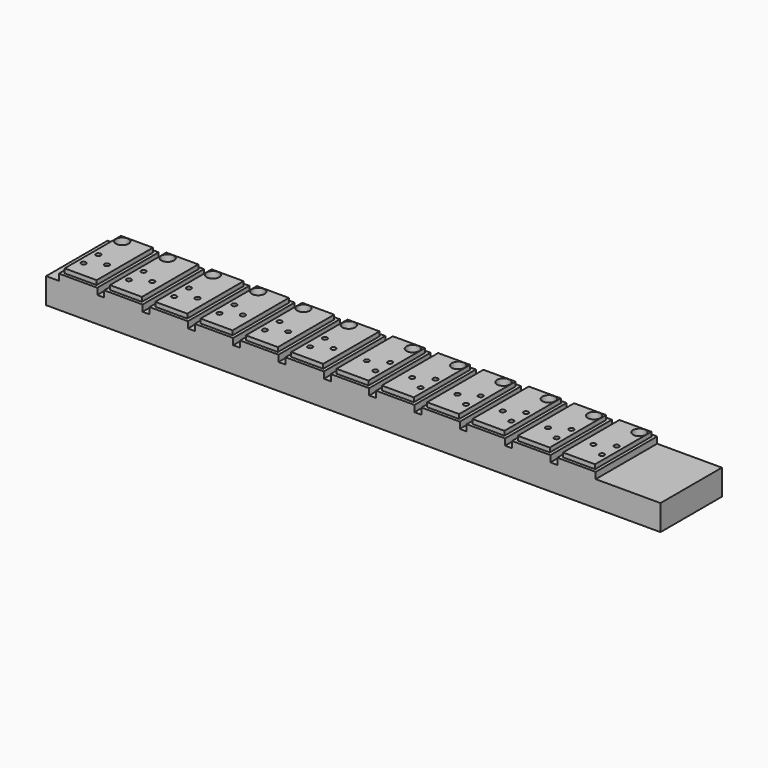
from build123d import *

# Parameters (mm, degrees)
F1_W     = 38.1
F1_H     = 76.2
F2_DEPTH = 6.35
F0_W     = 609.6
F0_H     = 76.2
F3_DEPTH = 25.4
F4_W     = 31.75
F4_H     = 69.85
F5_DEPTH = 4.318
F6_R     = 6.35
F6_R_2   = 2.413
F7_DEPTH = 12.7


with BuildPart() as f2:
    # F1 (on face) → F2 (new body)
    with BuildSketch(Plane.XY):
        with Locations((31.75, 38.1)):
            Rectangle(F1_W, F1_H)
    extrude(amount=F2_DEPTH)



with BuildPart() as f2b:
    # F1 (on face) → F2, piece 2 (new body)
    with BuildSketch(Plane.XY):
        with Locations((76.708, 38.1)):
            Rectangle(F1_W, F1_H)
    extrude(amount=F2_DEPTH)


with BuildPart() as f2c:
    # F1 (on face) → F2, piece 3 (new body)
    with BuildSketch(Plane.XY):
        with Locations((121.666, 38.1)):
            Rectangle(F1_W, F1_H)
    extrude(amount=F2_DEPTH)


with BuildPart() as f2d:
    # F1 (on face) → F2, piece 4 (new body)
    with BuildSketch(Plane.XY):
        with Locations((166.624, 38.1)):
            Rectangle(F1_W, F1_H)
    extrude(amount=F2_DEPTH)


with BuildPart() as f2e:
    # F1 (on face) → F2, piece 5 (new body)
    with BuildSketch(Plane.XY):
        with Locations((211.582, 38.1)):
            Rectangle(F1_W, F1_H)
    extrude(amount=F2_DEPTH)


with BuildPart() as f2f:
    # F1 (on face) → F2, piece 6 (new body)
    with BuildSketch(Plane.XY):
        with Locations((256.54, 38.1)):
            Rectangle(F1_W, F1_H)
    extrude(amount=F2_DEPTH)


with BuildPart() as f2g:
    # F1 (on face) → F2, piece 7 (new body)
    with BuildSketch(Plane.XY):
        with Locations((301.498, 38.1)):
            Rectangle(F1_W, F1_H)
    extrude(amount=F2_DEPTH)


with BuildPart() as f2h:
    # F1 (on face) → F2, piece 8 (new body)
    with BuildSketch(Plane.XY):
        with Locations((346.456, 38.1)):
            Rectangle(F1_W, F1_H)
    extrude(amount=F2_DEPTH)


with BuildPart() as f2i:
    # F1 (on face) → F2, piece 9 (new body)
    with BuildSketch(Plane.XY):
        with Locations((391.414, 38.1)):
            Rectangle(F1_W, F1_H)
    extrude(amount=F2_DEPTH)


with BuildPart() as f2j:
    # F1 (on face) → F2, piece 10 (new body)
    with BuildSketch(Plane.XY):
        with Locations((436.372, 38.1)):
            Rectangle(F1_W, F1_H)
    extrude(amount=F2_DEPTH)


with BuildPart() as f2k:
    # F1 (on face) → F2, piece 11 (new body)
    with BuildSketch(Plane.XY):
        with Locations((481.33, 38.1)):
            Rectangle(F1_W, F1_H)
    extrude(amount=F2_DEPTH)


with BuildPart() as f2l:
    # F1 (on face) → F2, piece 12 (new body)
    with BuildSketch(Plane.XY):
        with Locations((526.288, 38.1)):
            Rectangle(F1_W, F1_H)
    extrude(amount=F2_DEPTH)


with BuildPart() as f2_1:
    add(f2.part)

    add(f2b.part)  # F3 merges F2b

    add(f2c.part)  # F3 merges F2c

    add(f2d.part)  # F3 merges F2d

    add(f2e.part)  # F3 merges F2e

    add(f2f.part)  # F3 merges F2f

    add(f2g.part)  # F3 merges F2g

    add(f2h.part)  # F3 merges F2h

    add(f2i.part)  # F3 merges F2i

    add(f2j.part)  # F3 merges F2j

    add(f2k.part)  # F3 merges F2k

    add(f2l.part)  # F3 merges F2l
    # F0 (on Top) → F3 (join)
    with BuildSketch(Plane.XY):
        with Locations((304.8, 38.1)):
            Rectangle(F0_W, F0_H)
    extrude(amount=-F3_DEPTH)

    # F4 (on face) → F5 (join)
    with BuildSketch(Plane.XY.offset(6.35)):
        with Locations((31.75, 38.1)):
            Rectangle(F4_W, F4_H)
        with Locations((76.708, 38.1)):
            Rectangle(F4_W, F4_H)
        with Locations((121.666, 38.1)):
            Rectangle(F4_W, F4_H)
        with Locations((166.624, 38.1)):
            Rectangle(F4_W, F4_H)
        with Locations((211.582, 38.1)):
            Rectangle(F4_W, F4_H)
        with Locations((256.54, 38.1)):
            Rectangle(F4_W, F4_H)
        with Locations((301.498, 38.1)):
            Rectangle(F4_W, F4_H)
        with Locations((346.456, 38.1)):
            Rectangle(F4_W, F4_H)
        with Locations((391.414, 38.1)):
            Rectangle(F4_W, F4_H)
        with Locations((436.372, 38.1)):
            Rectangle(F4_W, F4_H)
        with Locations((481.33, 38.1)):
            Rectangle(F4_W, F4_H)
        with Locations((526.288, 38.1)):
            Rectangle(F4_W, F4_H)
    extrude(amount=F5_DEPTH)

    # F6 (on face) → F7 (cut)
    with BuildSketch(Plane.XY.offset(10.668)):
        with Locations((22.479, 66.421)):
            Circle(F6_R)
        with Locations((67.437, 66.421)):
            Circle(F6_R)
        with Locations((112.395, 66.421)):
            Circle(F6_R)
        with Locations((157.353, 66.421)):
            Circle(F6_R)
        with Locations((202.311, 66.421)):
            Circle(F6_R)
        with Locations((247.269, 66.421)):
            Circle(F6_R)
        with Locations((310.769, 66.421)):
            Circle(F6_R)
        with Locations((355.727, 66.421)):
            Circle(F6_R)
        with Locations((400.685, 66.421)):
            Circle(F6_R)
        with Locations((445.643, 66.421)):
            Circle(F6_R)
        with Locations((490.601, 66.421)):
            Circle(F6_R)
        with Locations((535.559, 66.421)):
            Circle(F6_R)
        with Locations((21.8821, 37.4497737813)):
            Circle(F6_R_2)
        with Locations((21.8821, 19.1922262187)):
            Circle(F6_R_2)
        with Locations((37.6936, 28.321)):
            Circle(F6_R_2)
        with Locations((66.8401, 37.4497737813)):
            Circle(F6_R_2)
        with Locations((82.6516, 28.321)):
            Circle(F6_R_2)
        with Locations((66.8401, 19.1922262187)):
            Circle(F6_R_2)
        with Locations((111.7981, 37.4497737813)):
            Circle(F6_R_2)
        with Locations((127.6096, 28.321)):
            Circle(F6_R_2)
        with Locations((111.7981, 19.1922262187)):
            Circle(F6_R_2)
        with Locations((156.7561, 37.4497737813)):
            Circle(F6_R_2)
        with Locations((172.5676, 28.321)):
            Circle(F6_R_2)
        with Locations((156.7561, 19.1922262187)):
            Circle(F6_R_2)
        with Locations((201.7141, 37.4497737813)):
            Circle(F6_R_2)
        with Locations((217.5256, 28.321)):
            Circle(F6_R_2)
        with Locations((201.7141, 19.1922262187)):
            Circle(F6_R_2)
        with Locations((246.6721, 37.4497737813)):
            Circle(F6_R_2)
        with Locations((262.4836, 28.321)):
            Circle(F6_R_2)
        with Locations((246.6721, 19.1922262187)):
            Circle(F6_R_2)
        with Locations((311.3786, 37.465)):
            Circle(F6_R_2)
        with Locations((311.3786, 19.2024)):
            Circle(F6_R_2)
        with Locations((295.5627244608, 28.3337)):
            Circle(F6_R_2)
        with Locations((340.5207244608, 28.3337)):
            Circle(F6_R_2)
        with Locations((356.3366, 19.2024)):
            Circle(F6_R_2)
        with Locations((356.3366, 37.465)):
            Circle(F6_R_2)
        with Locations((385.4787244608, 28.3337)):
            Circle(F6_R_2)
        with Locations((401.2946, 19.2024)):
            Circle(F6_R_2)
        with Locations((401.2946, 37.465)):
            Circle(F6_R_2)
        with Locations((430.4367244608, 28.3337)):
            Circle(F6_R_2)
        with Locations((446.2526, 19.2024)):
            Circle(F6_R_2)
        with Locations((446.2526, 37.465)):
            Circle(F6_R_2)
        with Locations((475.3947244608, 28.3337)):
            Circle(F6_R_2)
        with Locations((491.2106, 19.2024)):
            Circle(F6_R_2)
        with Locations((491.2106, 37.465)):
            Circle(F6_R_2)
        with Locations((520.3527244608, 28.3337)):
            Circle(F6_R_2)
        with Locations((536.1686, 19.2024)):
            Circle(F6_R_2)
        with Locations((536.1686, 37.465)):
            Circle(F6_R_2)
    extrude(amount=-F7_DEPTH, mode=Mode.SUBTRACT)


solid = f2_1.part
